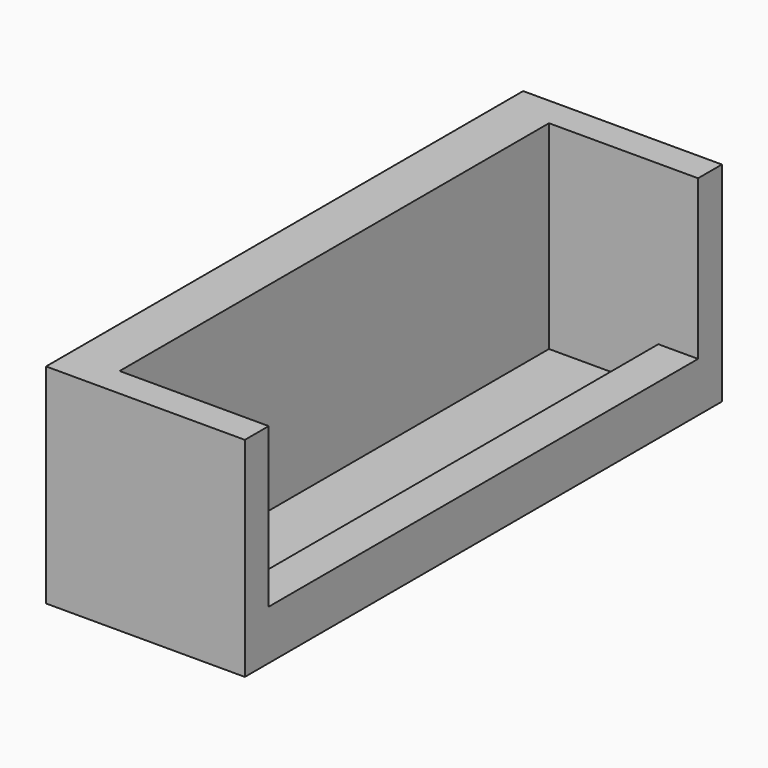
from build123d import *

# Parameters (mm, degrees)
F0_W     = 50.8
F0_H     = 2.54
F1_DEPTH = 152.4
F2_W     = 12.7
F2_H     = 152.4
F3_DEPTH = 50.8
F4_W     = 38.1
F4_H     = 7.62
F5_DEPTH = 50.8
F6_DEPTH = 50.8
F7_W     = 10.16
F7_H     = 137.16
F8_DEPTH = 10.16


with BuildPart() as f1:
    # F0 (on Front) → F1 (new body)
    with BuildSketch(Plane.XZ):
        with Locations((-36.653862, 12.186867)):
            Rectangle(F0_W, F0_H)
    extrude(amount=F1_DEPTH)

    # F2 (on face) → F3 (join)
    with BuildSketch(Plane.XY.offset(13.456867)):
        with Locations((-55.703862, -76.2)):
            Rectangle(F2_W, F2_H)
    extrude(amount=F3_DEPTH)

    # F4 (on face) → F5 (join)
    with BuildSketch(Plane.XY.offset(13.456867)):
        with Locations((-30.303862, -148.59)):
            Rectangle(F4_W, F4_H)
    extrude(amount=F5_DEPTH)

    # F4 (on face) → F6 (join)
    with BuildSketch(Plane.XY.offset(13.456867)):
        with Locations((-30.303862, -3.81)):
            Rectangle(F4_W, F4_H)
    extrude(amount=F6_DEPTH)

    # F7 (on face) → F8 (join)
    with BuildSketch(Plane.XY.offset(13.456867)):
        with Locations((-16.333862, -76.2)):
            Rectangle(F7_W, F7_H)
    extrude(amount=F8_DEPTH)


solid = f1.part
